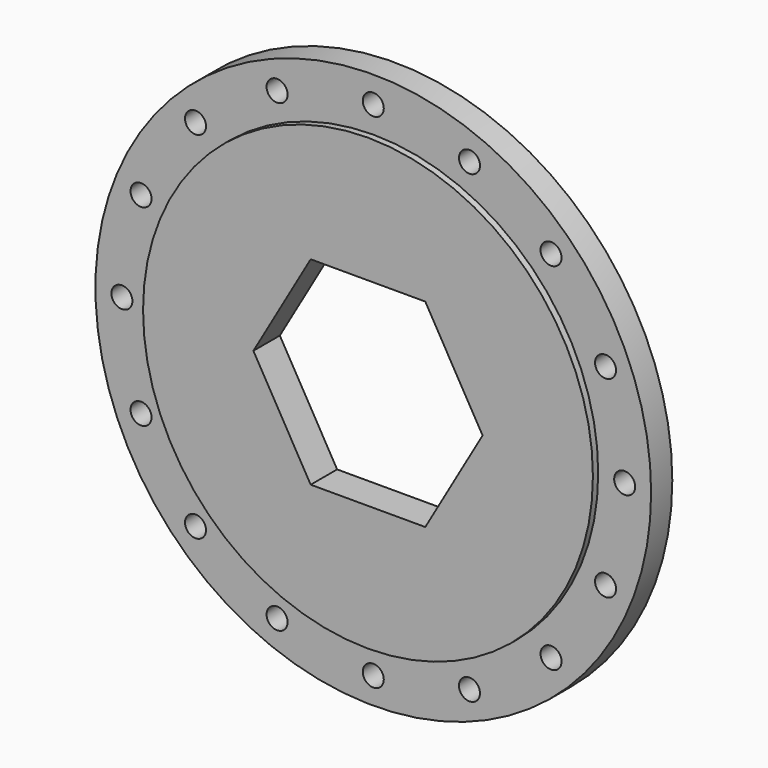
from build123d import *

# Parameters (mm, degrees)
F0_R     = 210
F0_R_2   = 7.9375
F1_DEPTH = 25
F2_R     = 210
F2_R_2   = 170
F3_DEPTH = 5


with BuildPart() as f1:
    # F0 (on Front) → F1 (new body)
    with BuildSketch(Plane.XZ):
        Circle(F0_R)
        with Locations((-134.350288, -134.350288)):
            Circle(F0_R_2, mode=Mode.SUBTRACT)
        with Locations((-72.709852, -175.537111)):
            Circle(F0_R_2, mode=Mode.SUBTRACT)
        with Locations((-175.537111, -72.709852)):
            Circle(F0_R_2, mode=Mode.SUBTRACT)
        with Locations((0, -190)):
            Circle(F0_R_2, mode=Mode.SUBTRACT)
        with Locations((72.709852, -175.537111)):
            Circle(F0_R_2, mode=Mode.SUBTRACT)
        with Locations((134.350288, -134.350288)):
            Circle(F0_R_2, mode=Mode.SUBTRACT)
        with Locations((175.537111, -72.709852)):
            Circle(F0_R_2, mode=Mode.SUBTRACT)
        with Locations((-190, 0)):
            Circle(F0_R_2, mode=Mode.SUBTRACT)
        with Locations((-175.537111, 72.709852)):
            Circle(F0_R_2, mode=Mode.SUBTRACT)
        with Locations((-134.350288, 134.350288)):
            Circle(F0_R_2, mode=Mode.SUBTRACT)
        with Locations((-72.709852, 175.537111)):
            Circle(F0_R_2, mode=Mode.SUBTRACT)
        Polygon((43.30127, 75), (86.60254, 0), (43.30127, -75), (-43.30127, -75), (-86.60254, 0), (-43.30127, 75), align=None, mode=Mode.SUBTRACT)
        with Locations((190, 0)):
            Circle(F0_R_2, mode=Mode.SUBTRACT)
        with Locations((175.537111, 72.709852)):
            Circle(F0_R_2, mode=Mode.SUBTRACT)
        with Locations((0, 190)):
            Circle(F0_R_2, mode=Mode.SUBTRACT)
        with Locations((72.709852, 175.537111)):
            Circle(F0_R_2, mode=Mode.SUBTRACT)
        with Locations((134.350288, 134.350288)):
            Circle(F0_R_2, mode=Mode.SUBTRACT)
    extrude(amount=F1_DEPTH)

    # F2 (on face) → F3 (cut)
    with BuildSketch(Plane.XZ.offset(25)):
        Circle(F2_R)
        Circle(F2_R_2, mode=Mode.SUBTRACT)
    extrude(amount=-F3_DEPTH, mode=Mode.SUBTRACT)


solid = f1.part
